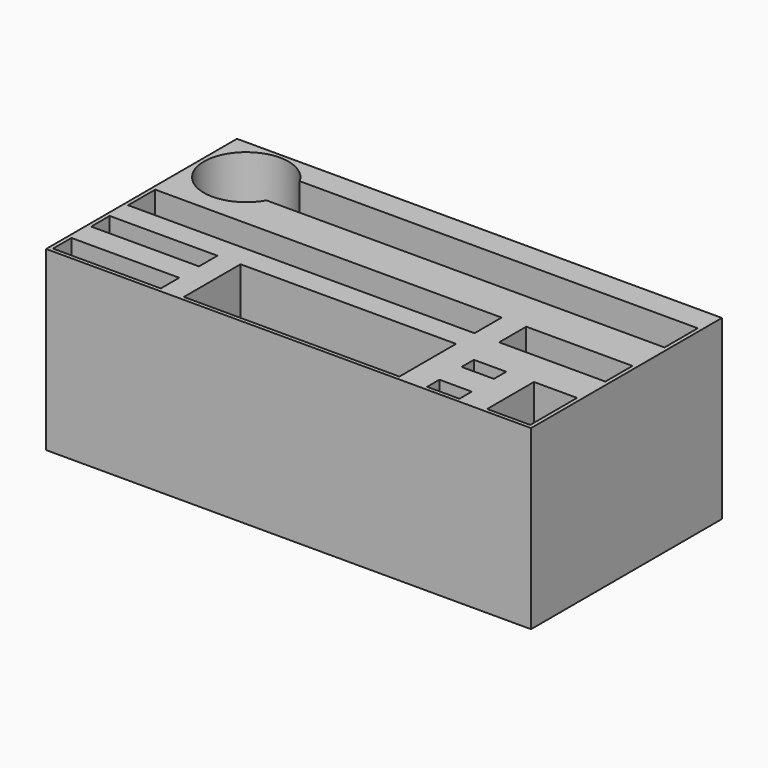
from build123d import *

# Parameters (mm, degrees)
F0_W      = 315
F0_H      = 155
F1_DEPTH  = 115
F3_W      = 225
F3_H      = 22
F9_DEPTH  = 100
F10_DEPTH = 55
F11_DEPTH = 30
F4_W      = 70
F4_H      = 15
F12_DEPTH = 80
F5_W      = 140
F5_H      = 46
F13_DEPTH = 100
F6_W      = 69
F6_H      = 22
F14_DEPTH = 100
F7_W      = 21
F7_H      = 10
F15_DEPTH = 35
F8_W      = 28
F8_H      = 38
F16_DEPTH = 25


with BuildPart() as f1:
    # F0 (on Top) → F1 (new body)
    with BuildSketch(Plane.XY):
        Rectangle(F0_W, F0_H)
    extrude(amount=-F1_DEPTH)

    # F3 (on face) → F9 (cut)
    with BuildSketch(Plane.XY):
        with Locations((-42.5, -3)):
            Rectangle(F3_W, F3_H)
    extrude(amount=-F9_DEPTH, mode=Mode.SUBTRACT)

    # F2 (on face) → F10 (cut)
    with BuildSketch(Plane.XY):
        with BuildLine():
            ThreePointArc((-103.541703, 34), (-100.900158, 40.521575), (-100, 47.5))
            ThreePointArc((-100, 47.5), (-100.900158, 54.478425), (-103.541703, 61))
            ThreePointArc((-103.541703, 61), (-155, 47.5), (-103.541703, 34))
        make_face()
    extrude(amount=-F10_DEPTH, mode=Mode.SUBTRACT)

    # F4 (on face) → F11 (cut)
    with BuildSketch(Plane.XY):
        with BuildLine():
            ThreePointArc((-103.541703, 61), (-155, 47.5), (-103.541703, 34))
            Line((-103.541703, 34), (155, 34))
            Line((155, 34), (155, 61))
            Line((155, 61), (-103.541703, 61))
        make_face()
    extrude(amount=-F11_DEPTH, mode=Mode.SUBTRACT)

    # F4 (on face) → F12 (cut)
    with BuildSketch(Plane.XY):
        with Locations((-120, -36.5)):
            Rectangle(F4_W, F4_H)
        with Locations((-120, -67.5)):
            Rectangle(F4_W, F4_H)
    extrude(amount=-F12_DEPTH, mode=Mode.SUBTRACT)

    # F5 (on face) → F13 (cut)
    with BuildSketch(Plane.XY):
        with Locations((0, -52)):
            Rectangle(F5_W, F5_H)
    extrude(amount=-F13_DEPTH, mode=Mode.SUBTRACT)

    # F6 (on face) → F14 (cut)
    with BuildSketch(Plane.XY):
        with Locations((120.5, -3)):
            Rectangle(F6_W, F6_H)
    extrude(amount=-F14_DEPTH, mode=Mode.SUBTRACT)

    # F7 (on face) → F15 (cut)
    with BuildSketch(Plane.XY):
        with Locations((98.5, -42)):
            Rectangle(F7_W, F7_H)
        with Locations((98.5, -70)):
            Rectangle(F7_W, F7_H)
    extrude(amount=-F15_DEPTH, mode=Mode.SUBTRACT)

    # F8 (on face) → F16 (cut)
    with BuildSketch(Plane.XY):
        with Locations((141, -56)):
            Rectangle(F8_W, F8_H)
    extrude(amount=-F16_DEPTH, mode=Mode.SUBTRACT)


solid = f1.part
